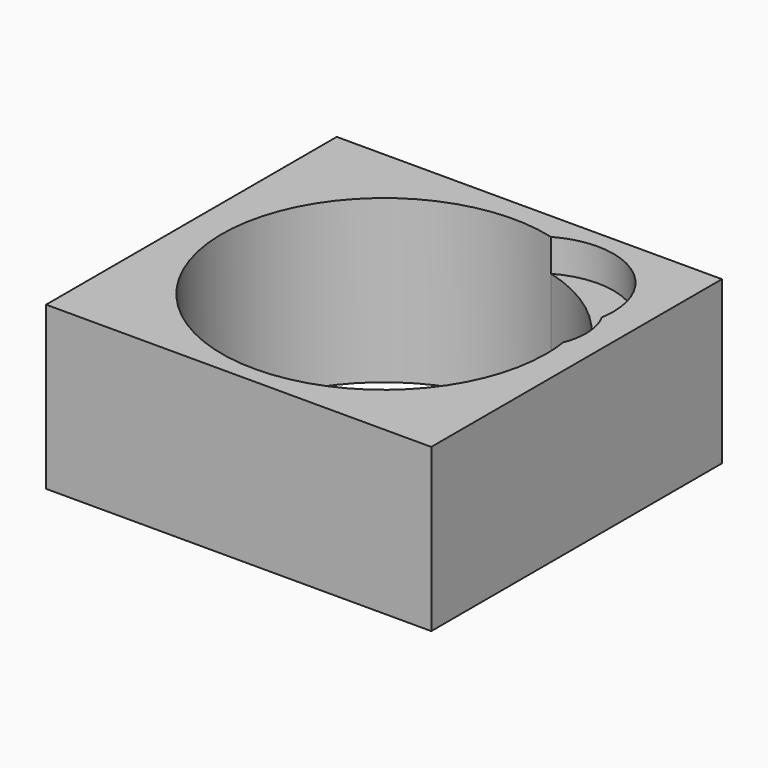
from build123d import *

# Parameters (mm, degrees)
F0_W     = 60.3283978999
F0_H     = 56.9055080414
F1_DEPTH = 25.4
F3_DEPTH = 5.08
F5_DEPTH = 25.401


with BuildPart() as f1:
    # F0 (on Top) → F1 (new body)
    with BuildSketch(Plane.XY):
        with Locations((30.1641989499, 28.4527540207)):
            Rectangle(F0_W, F0_H)
    extrude(amount=F1_DEPTH)

    # F2 (on face) → F3 (cut)
    with BuildSketch(Plane.XY.offset(25.4)):
        with BuildLine():
            ThreePointArc((55.1804514534, 39.8446242733), (55.3108318877, 40.8708207203), (55.3543950429, 41.9043488801))
            ThreePointArc((55.3543950429, 41.9043488801), (36.2534657798, 52.11936711), (38.3624892299, 30.5614424362))
            ThreePointArc((38.3624892299, 30.5614424362), (42.0828202021, 43.6972697394), (55.1804514534, 39.8446242733))
        make_face()
        with BuildLine():
            ThreePointArc((55.1804514534, 39.8446242733), (42.0828202021, 43.6972697394), (38.3624892299, 30.5614424362))
            ThreePointArc((38.3624892299, 30.5614424362), (49.0077038635, 31.1517402149), (55.1804514534, 39.8446242733))
        make_face()
        with BuildLine():
            ThreePointArc((55.1804514534, 39.8446242733), (49.0077038635, 31.1517402149), (38.3624892299, 30.5614424362))
            ThreePointArc((38.3624892299, 30.5614424362), (49.1682517649, 25.9984305066), (56.3300997812, 35.287860781))
            ThreePointArc((56.3300997812, 35.287860781), (56.0382540759, 37.6376365577), (55.1804514534, 39.8446242733))
        make_face()
    extrude(amount=-F3_DEPTH, mode=Mode.SUBTRACT)

    # F4 (on face) → F5 (cut, through all)
    with BuildSketch(Plane.XY.offset(25.4)):
        with BuildLine():
            ThreePointArc((37.0080242328, 52.5846074944), (10.3680448546, 12.5437070116), (55.898797074, 28.0328262597))
            ThreePointArc((55.898797074, 28.0328262597), (55.8323251046, 29.8692242337), (55.6332571118, 31.6960104763))
            ThreePointArc((55.6332571118, 31.6960104763), (47.3543007953, 25.7030679225), (38.3624892299, 30.5614424362))
            ThreePointArc((38.3624892299, 30.5614424362), (30.8137212617, 41.1504129454), (37.0080242328, 52.5846074944))
        make_face()
        with BuildLine():
            ThreePointArc((38.3624892299, 30.5614424362), (47.3543007953, 25.7030679225), (55.6332571118, 31.6960104763))
            ThreePointArc((55.6332571118, 31.6960104763), (49.4570170906, 44.9368463083), (37.0080242328, 52.5846074944))
            ThreePointArc((37.0080242328, 52.5846074944), (30.8137212617, 41.1504129454), (38.3624892299, 30.5614424362))
        make_face()
    extrude(amount=-F5_DEPTH, mode=Mode.SUBTRACT)


solid = f1.part
